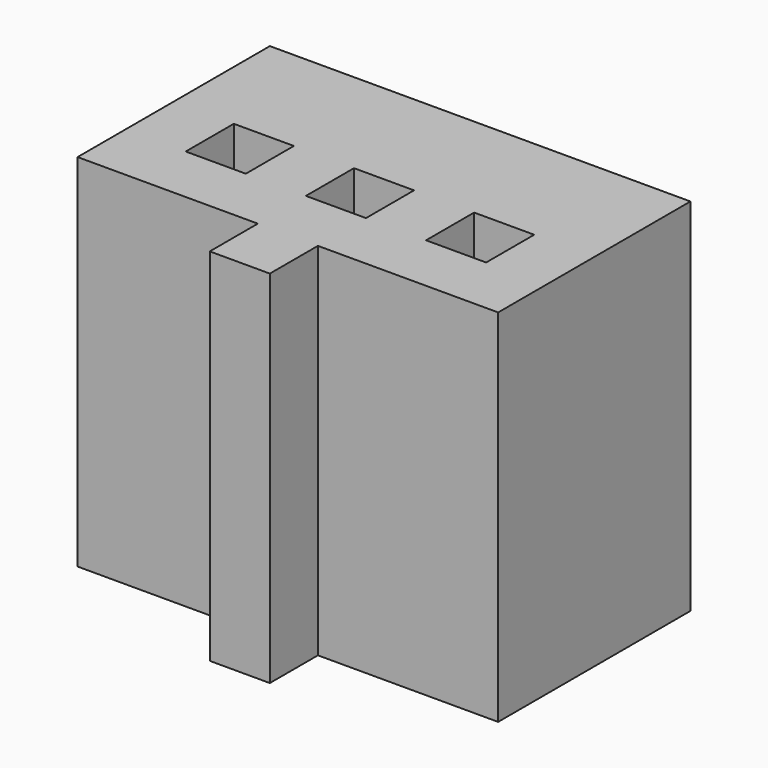
from build123d import *

# Parameters (mm, degrees)
F0_W     = 1
F0_H     = 1
F1_DEPTH = 6


with BuildPart() as f1:
    # F0 (on Top) → F1 (new body)
    with BuildSketch(Plane.XY):
        Polygon((0, 1), (0, 0), (3, 0), (4, 0), (7, 0), (7, 4), (0, 4), align=None)
        with Locations((1.5, 1.5)):
            Rectangle(F0_W, F0_H, mode=Mode.SUBTRACT)
        with Locations((3.5, 1.5)):
            Rectangle(F0_W, F0_H, mode=Mode.SUBTRACT)
        with Locations((5.5, 1.5)):
            Rectangle(F0_W, F0_H, mode=Mode.SUBTRACT)
        with Locations((3.5, -0.5)):
            Rectangle(F0_W, F0_H)
    extrude(amount=F1_DEPTH)


solid = f1.part
